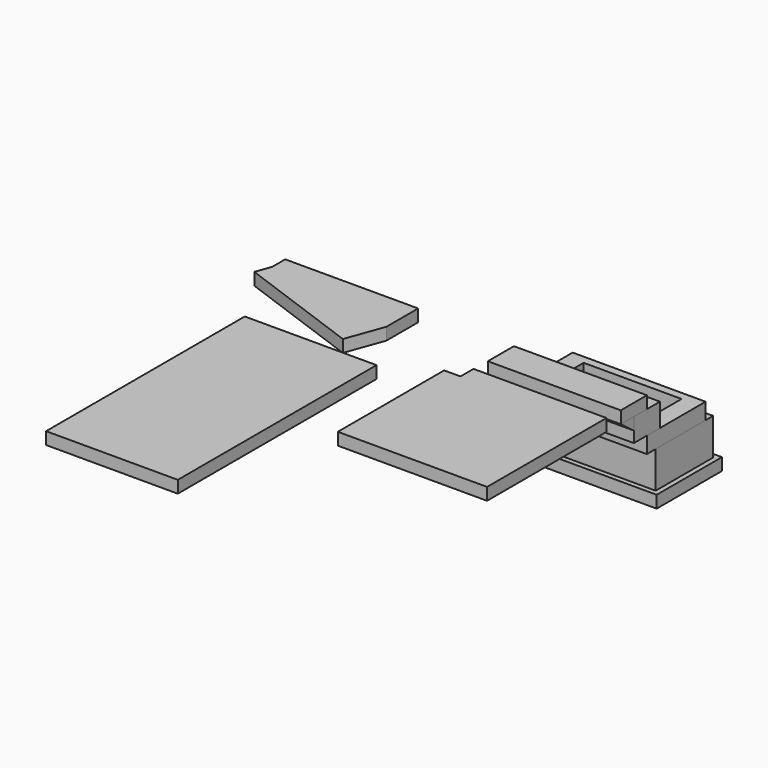
from build123d import *

# Parameters (mm, degrees)
F0_W      = 1750
F0_H      = 1000
F1_DEPTH  = 150
F2_W      = 1630
F2_H      = 880
F2_W_2    = 1200
F2_H_2    = 450
F3_DEPTH  = 450
F4_W      = 1630
F4_H      = 135
F4_H_2    = 765
F4_W_2    = 1200
F4_H_3    = 450
F5_DEPTH  = 200
F6_W      = 1630
F6_H      = 200
F7_DEPTH  = 285
F8_W      = 1630
F8_H      = 400
F9_DEPTH  = 150
F11_DEPTH = 1630
F13_DEPTH = 150
F14_W     = 1615
F14_H     = 3045
F15_DEPTH = 150
F17_DEPTH = 150


with BuildPart() as f1:
    # F0 (on Top) → F1 (new body)
    with BuildSketch(Plane.XY):
        with Locations((772.775441, 407.935686)):
            Rectangle(F0_W, F0_H)
    extrude(amount=F1_DEPTH)


with BuildPart() as f3:
    # F2 (on face) → F3 (new body)
    with BuildSketch(Plane.XY.offset(150)):
        with Locations((772.775441, 407.935686)):
            Rectangle(F2_W, F2_H)
        with Locations((772.775441, 407.935686)):
            Rectangle(F2_W_2, F2_H_2, mode=Mode.SUBTRACT)
    extrude(amount=F3_DEPTH)


with BuildPart() as f5:
    # F4 (on face) → F5 (new body)
    with BuildSketch(Plane.XY.offset(600)):
        with Locations((772.775441, -99.564314)):
            Rectangle(F4_W, F4_H)
        with Locations((772.775441, 350.435686)):
            Rectangle(F4_W, F4_H_2)
        with Locations((772.775441, 407.935686)):
            Rectangle(F4_W_2, F4_H_3, mode=Mode.SUBTRACT)
    extrude(amount=F5_DEPTH)


with BuildPart() as f7:
    # F6 (on face) → F7 (new body)
    with BuildSketch(Plane.XY.offset(800)):
        with Locations((772.775441, -267.064314)):
            Rectangle(F6_W, F6_H)
        with Locations((772.775441, -67.064314)):
            Rectangle(F6_W, F6_H)
    extrude(amount=F7_DEPTH)


with BuildPart() as f9:
    # F8 (on face) → F9 (new body)
    with BuildSketch(Plane.XY.offset(1085)):
        with Locations((772.775441, -367.064314)):
            Rectangle(F8_W, F8_H)
        with Locations((772.775441, -367.064314)):
            Rectangle(F8_W, F8_H)
    extrude(amount=F9_DEPTH)


with BuildPart() as f11:
    # F10 (on face) → F11 (new body)
    with BuildSketch(Plane.YZ.offset(1587.775441)):
        Polygon((-367.064314, 935), (-367.064314, 1085), (-567.064314, 1085), align=None)
    extrude(amount=-F11_DEPTH)


with BuildPart() as f13:
    # F12 (on face) → F13 (new body)
    with BuildSketch(Plane.XY.offset(1235)):
        Polygon((1759.989725, -1001.661468), (129.989725, -1001.661468), (129.989725, -1201.661468), (-70.010275, -1201.661468), (-70.010275, -2831.661468), (1759.989725, -2831.661468), align=None)
    extrude(amount=F13_DEPTH)


with BuildPart() as f15:
    # F14 (on face) → F15 (new body)
    with BuildSketch(Plane.XY.offset(1385)):
        with Locations((-1271.28089, -3268.740692)):
            Rectangle(F14_W, F14_H)
    extrude(amount=F15_DEPTH)


with BuildPart() as f17:
    # F16 (on face) → F17 (new body)
    with BuildSketch(Plane.XY.offset(1235)):
        Polygon((-1066.766222, -841.639766), (-1066.766222, -354.226787), (-2696.766222, -354.226787), (-2696.766222, -554.226787), (-2765.17025, -742.165311), (-1233.471278, -1299.658145), align=None)
    extrude(amount=F17_DEPTH)


solid = Compound([f1.part, f3.part, f5.part, f7.part, f9.part, f11.part, f13.part, f15.part, f17.part])
